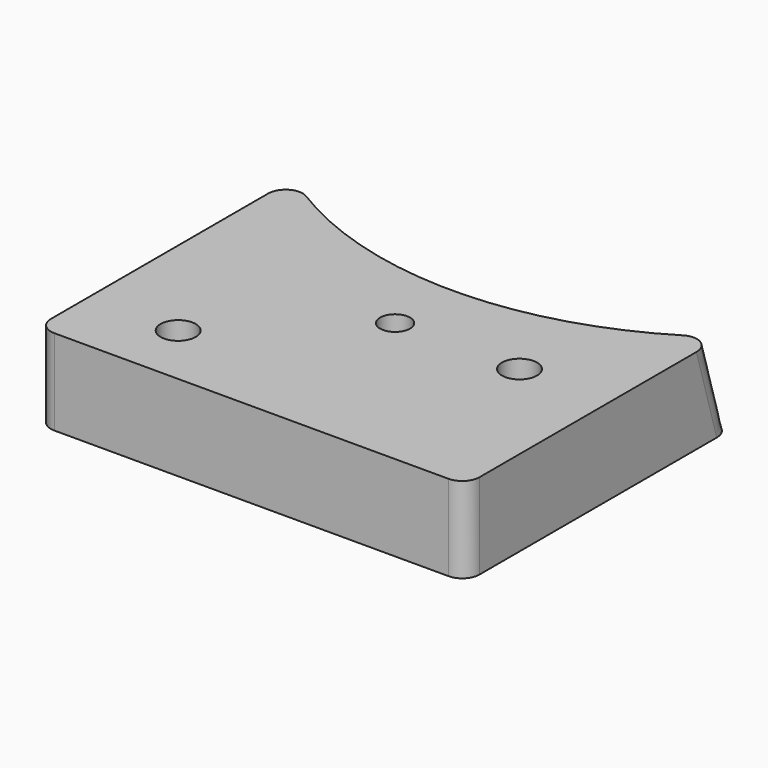
from build123d import *

# Parameters (mm, degrees)
F0_R     = 2.6035
F0_R_2   = 2.2225
F1_DEPTH = 12.7
F2_SIZE2 = 2.54
F2_SIZE  = 10.16
F3_R     = 2.54
F4_R     = 2.54
F5_R     = 1.27


with BuildPart() as f1:
    # F0 (on Top) → F1 (new body)
    with BuildSketch(Plane.XY):
        with BuildLine():
            ThreePointArc((31.75, 11.1442627102), (0, 0), (-31.75, 11.1442627102))
            Line((-31.75, 11.1442627102), (-31.75, -39.6557372898))
            Line((-31.75, -39.6557372898), (31.75, -39.6557372898))
            Line((31.75, -39.6557372898), (31.75, 11.1442627102))
        make_face()
        with Locations((-18.4404, -30.1752)):
            Circle(F0_R, mode=Mode.SUBTRACT)
        with Locations((0, -13.0556)):
            Circle(F0_R_2, mode=Mode.SUBTRACT)
        with Locations((18.4404, -13.0556)):
            Circle(F0_R, mode=Mode.SUBTRACT)
    extrude(amount=F1_DEPTH)

    # F2
    f2_edges = [f1.edges().sort_by_distance(p)[0] for p in [
        (0, 0, 12.7),
    ]]
    f2_side = f1.faces().sort_by_distance((0, 0, 6.35))[0]
    chamfer(f2_edges, length=F2_SIZE, length2=F2_SIZE2, reference=f2_side)

    # F3
    f3_edges = [f1.edges().sort_by_distance(p)[0] for p in [
        (-31.75, 9.530934, 7.616675),
        (31.75, 9.530934, 7.616675),
    ]]
    fillet(f3_edges, radius=F3_R)

    # F4
    f4_edges = [f1.edges().sort_by_distance(p)[0] for p in [
        (-31.75, -39.655737, 6.35),
        (31.75, -39.655737, 6.35),
    ]]
    fillet(f4_edges, radius=F4_R)

    # F5
    f5_edges = [f1.edges().sort_by_distance(p)[0] for p in [
        (0, 0, 0),
    ]]
    fillet(f5_edges, radius=F5_R)


solid = f1.part
